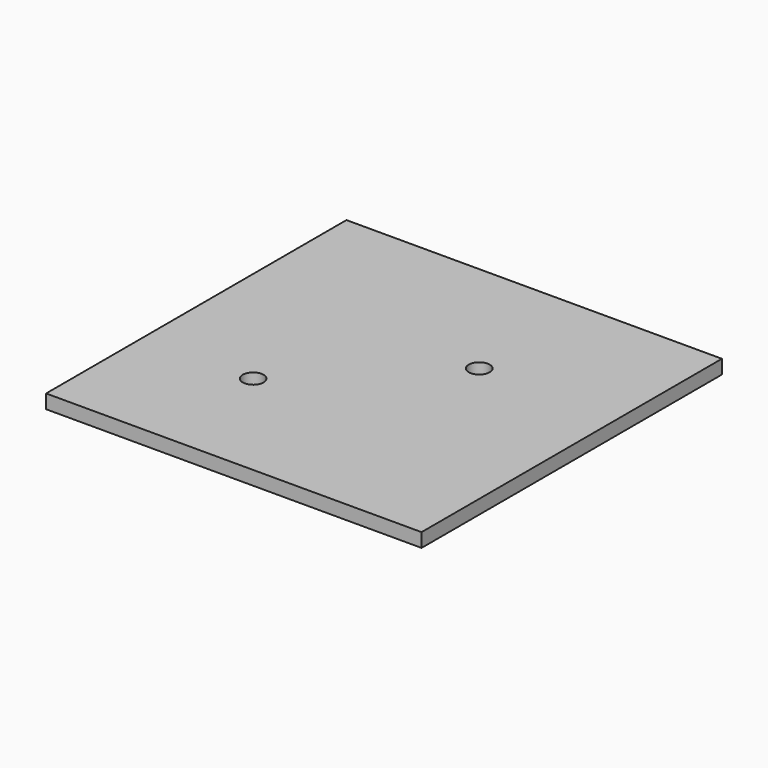
from build123d import *

# Parameters (mm, degrees)
F0_W     = 53.975
F0_H     = 53.975
F1_DEPTH = 2


with BuildPart() as f1:
    # F0 (on Top) → F1 (new body)
    with BuildSketch(Plane.XY):
        with Locations((-23.777467, 14.34453)):
            Rectangle(F0_W, F0_H)
        with BuildLine():
            ThreePointArc((-33.794921, 5.740177), (-33.480186, 5.258613), (-33.369865, 4.693996))
            ThreePointArc((-33.369865, 4.693996), (-36.259544, 4.129379), (-33.794921, 5.740177))
        make_face(mode=Mode.SUBTRACT)
        with BuildLine():
            ThreePointArc((-15.095824, 22.479086), (-16.031207, 21.089407), (-17.670768, 21.432904))
            ThreePointArc((-17.670768, 21.432904), (-17.160441, 23.868765), (-15.095824, 22.479086))
        make_face(mode=Mode.SUBTRACT)
    extrude(amount=F1_DEPTH)


solid = f1.part
